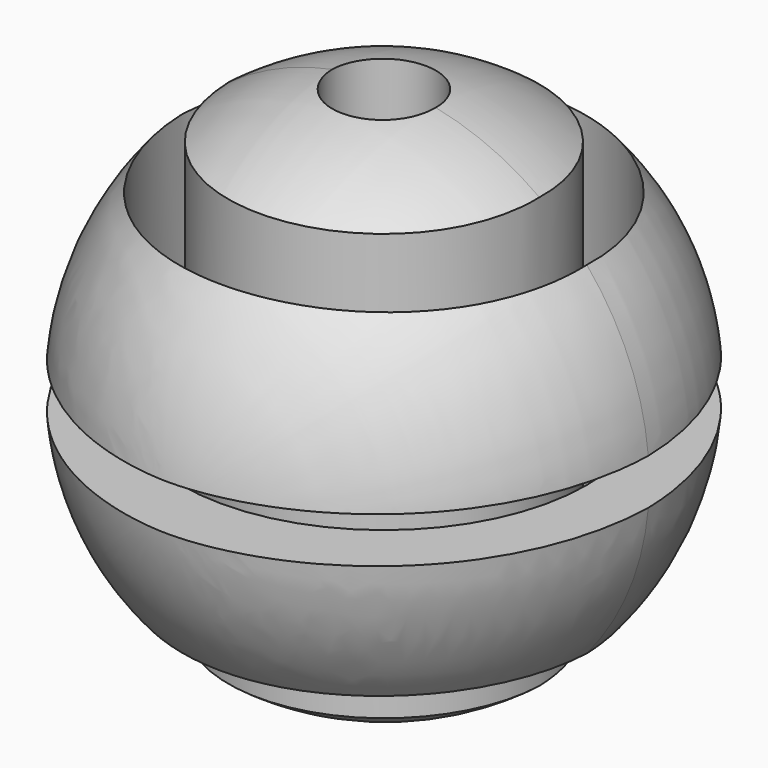
from build123d import *

# Parameters (mm, degrees)
F2_R     = 10.658499
F3_DEPTH = 127
F4_R     = 41.803178
F4_R_2   = 32.03336
F5_DEPTH = 101.6
F6_W     = 121.782816
F6_H     = 9.428346
F7_DEPTH = 127


with BuildPart() as f1:
    # F0 (on Top) → F1 (revolve)
    with BuildSketch(Plane.XY):
        with BuildLine():
            ThreePointArc((0, -55.784389), (38.350633, -38.688336), (54.668067, 0))
            ThreePointArc((54.668067, 0), (38.37008, 38.725141), (0, 55.842322))
            Line((0, 55.842322), (0, -55.784389))
        make_face()
    revolve(axis=Axis((0, 0.028966, 0), (0, -1, 0)))

    # F2 (on Top) → F3 (cut, symmetric)
    with BuildSketch(Plane.XY):
        Circle(F2_R)
    extrude(amount=F3_DEPTH, both=True, mode=Mode.SUBTRACT)

    # F4 (on Top) → F5 (cut, symmetric)
    with BuildSketch(Plane.XY):
        Circle(F4_R)
        Circle(F4_R_2, mode=Mode.SUBTRACT)
    extrude(amount=F5_DEPTH, both=True, mode=Mode.SUBTRACT)

    # F6 (on Right) → F7 (cut, symmetric)
    with BuildSketch(Plane.YZ):
        Rectangle(F6_W, F6_H)
    extrude(amount=F7_DEPTH, both=True, mode=Mode.SUBTRACT)


solid = f1.part
